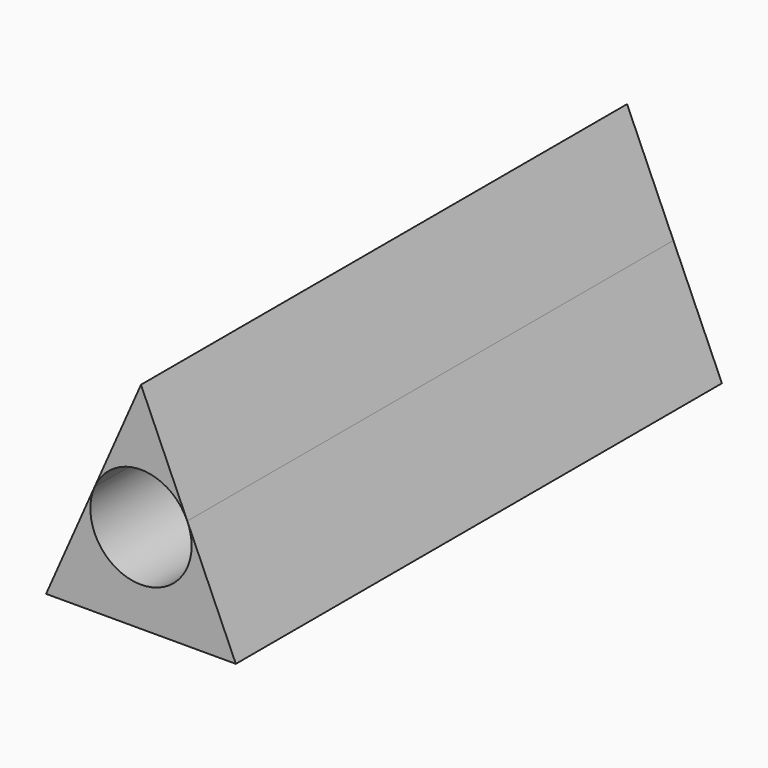
from build123d import *

# Parameters (mm, degrees)
F1_DEPTH = 19.05


with BuildPart() as f1:
    # F0 (on Front) → F1 (new body, symmetric)
    with BuildSketch(Plane.XZ):
        with BuildLine():
            ThreePointArc((2.9047135542, 1.2818986575), (3.106693623, 0.6550417794), (3.175, 0))
            ThreePointArc((3.175, 0), (-0.6550417722, -3.1066936245), (-2.9047135601, 1.2818986441))
            Line((-2.9047135601, 1.2818986441), (-5.9500549229, -5.6186814424))
            Line((-5.9500549229, -5.6186814424), (5.9480097623, -5.6140472182))
            Line((5.9480097623, -5.6140472182), (2.9047135542, 1.2818986575))
        make_face()
    extrude(amount=F1_DEPTH, both=True)


with BuildPart() as f1b:
    # F0 (on Front) → F1, piece 2 (new body, symmetric)
    with BuildSketch(Plane.XZ):
        with BuildLine():
            ThreePointArc((-2.9047135601, 1.2818986441), (-7.3e-09, 3.175), (2.9047135542, 1.2818986575))
            Line((2.9047135542, 1.2818986575), (0, 7.863823677))
            Line((0, 7.863823677), (-2.9047135601, 1.2818986441))
        make_face()
    extrude(amount=F1_DEPTH, both=True)


solid = Compound([f1.part, f1b.part])
